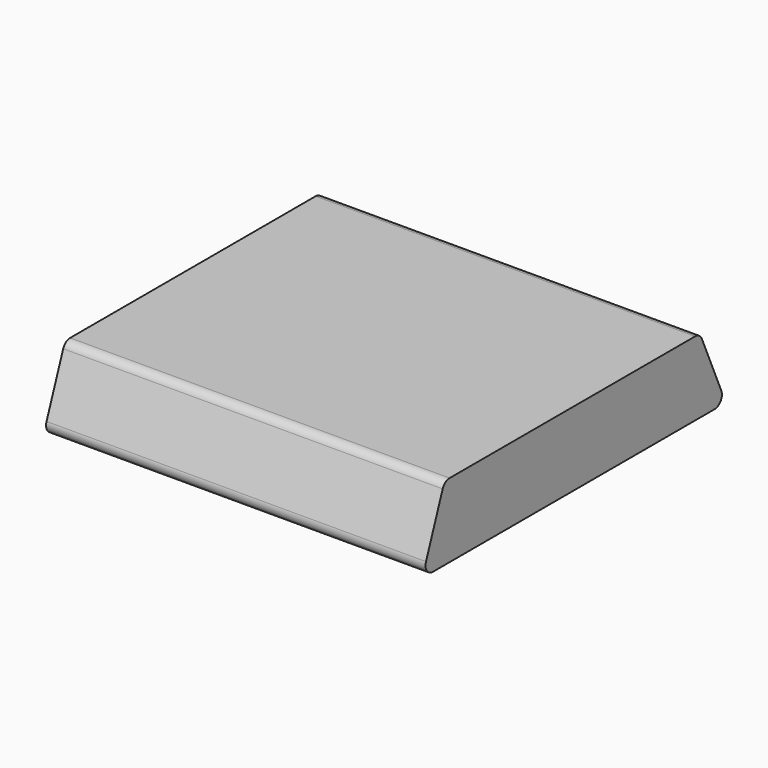
from build123d import *

# Parameters (mm, degrees)
F1_DEPTH = 20.5
F2_R     = 1


with BuildPart() as f1:
    # F0 (on Right) → F1 (new body, symmetric)
    with BuildSketch(Plane.YZ):
        Polygon((-17.5, 8), (-20.5, 0), (20.5, 0), (17, 8), align=None)
    extrude(amount=F1_DEPTH, both=True)

    # F2
    f2_edges = [f1.edges().sort_by_distance(p)[0] for p in [
        (0, -20.5, 0),
        (0, -17.5, 8),
        (0, 17, 8),
        (0, 20.5, 0),
    ]]
    fillet(f2_edges, radius=F2_R)


solid = f1.part
